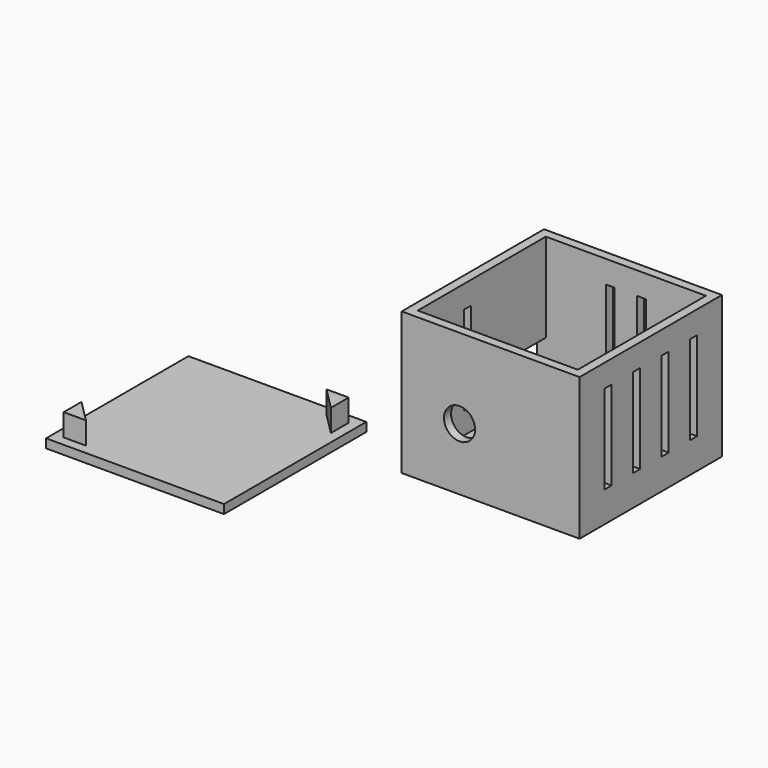
from build123d import *

# Parameters (mm, degrees)
F0_W      = 40
F0_H      = 40
F0_W_2    = 36
F0_H_2    = 36
F1_DEPTH  = 2
F2_DEPTH  = 32
F3_W      = 10
F3_H      = 5
F4_DEPTH  = 2
F6_D      = 7
F6_DEPTH  = 5
F6_TIP    = 2.1030121666
F7_W      = 2
F7_H      = 20
F8_DEPTH  = 40
F9_DEPTH  = 25
F10_W     = 2
F10_H     = 20
F11_DEPTH = 25
F12_W     = 40
F12_H     = 40
F13_DEPTH = 2
F14_DEPTH = 7


with BuildPart() as f1:
    # F0 (on Top) → F1 (new body)
    with BuildSketch(Plane.XY):
        Rectangle(F0_W, F0_H)
        Rectangle(F0_W_2, F0_H_2, mode=Mode.SUBTRACT)
        Rectangle(F0_W_2, F0_H_2)
    extrude(amount=F1_DEPTH)

    # F0 (on Top) → F2 (join)
    with BuildSketch(Plane.XY):
        Rectangle(F0_W, F0_H)
        Rectangle(F0_W_2, F0_H_2, mode=Mode.SUBTRACT)
    extrude(amount=F2_DEPTH)

    # F3 (on face) → F4 (cut)
    with BuildSketch(Plane(origin=(-20, 0, 0), x_dir=(0, -1, 0), z_dir=(-1, 0, 0))):
        with Locations((-13, 9.5)):
            Rectangle(F3_W, F3_H)
    extrude(amount=-F4_DEPTH, mode=Mode.SUBTRACT)

    # F6
    with Locations(Plane.XZ.offset(20)):
        with Locations((-7, 14)):
            Hole(F6_D / 2, depth=F6_DEPTH)
            with Locations((0, 0, -(F6_DEPTH + F6_TIP / 2))):  # 118° drill point
                Cone(0, F6_D / 2, F6_TIP, mode=Mode.SUBTRACT)

    # F7 (on face) → F8 (cut)
    with BuildSketch(Plane.YZ.offset(20)):
        with Locations((-12, 16.8844033033)):
            Rectangle(F7_W, F7_H)
        with Locations((-4, 16.8844033033)):
            Rectangle(F7_W, F7_H)
    extrude(amount=-F8_DEPTH, mode=Mode.SUBTRACT)

    # F7 (on face) → F9 (cut)
    with BuildSketch(Plane.YZ.offset(20)):
        with Locations((4, 16.8844033033)):
            Rectangle(F7_W, F7_H)
        with Locations((12, 16.8844033033)):
            Rectangle(F7_W, F7_H)
    extrude(amount=-F9_DEPTH, mode=Mode.SUBTRACT)

    # F10 (on face) → F11 (cut)
    with BuildSketch(Plane(origin=(0, 20, 0), x_dir=(-1, 0, 0), z_dir=(0, 1, 0))):
        with Locations((-3.5, 16.9328343759)):
            Rectangle(F10_W, F10_H)
        with Locations((3.5, 16.9299475346)):
            Rectangle(F10_W, F10_H)
    extrude(amount=-F11_DEPTH, mode=Mode.SUBTRACT)


with BuildPart() as f13:
    # F12 (on Top) → F13 (new body)
    with BuildSketch(Plane.XY):
        with Locations((-54.6050996959, -31.6884810731)):
            Rectangle(F12_W, F12_H)
        Polygon((-72.4050996959, -44.4884810731), (-67.4050996959, -49.4884810731), (-72.4050996959, -49.4884810731), align=None, mode=Mode.SUBTRACT)
        Polygon((-41.8050996959, -13.8884810731), (-36.8050996959, -13.8884810731), (-36.8050996959, -18.8884810731), align=None, mode=Mode.SUBTRACT)
        Polygon((-72.4050996959, -49.4884810731), (-67.4050996959, -49.4884810731), (-72.4050996959, -44.4884810731), align=None)
        Polygon((-36.8050996959, -18.8884810731), (-36.8050996959, -13.8884810731), (-41.8050996959, -13.8884810731), align=None)
    extrude(amount=F13_DEPTH)

    # F12 (on Top) → F14 (join)
    with BuildSketch(Plane.XY):
        Polygon((-72.4050996959, -49.4884810731), (-67.4050996959, -49.4884810731), (-72.4050996959, -44.4884810731), align=None)
        Polygon((-36.8050996959, -18.8884810731), (-36.8050996959, -13.8884810731), (-41.8050996959, -13.8884810731), align=None)
    extrude(amount=F14_DEPTH)


solid = Compound([f1.part, f13.part])
